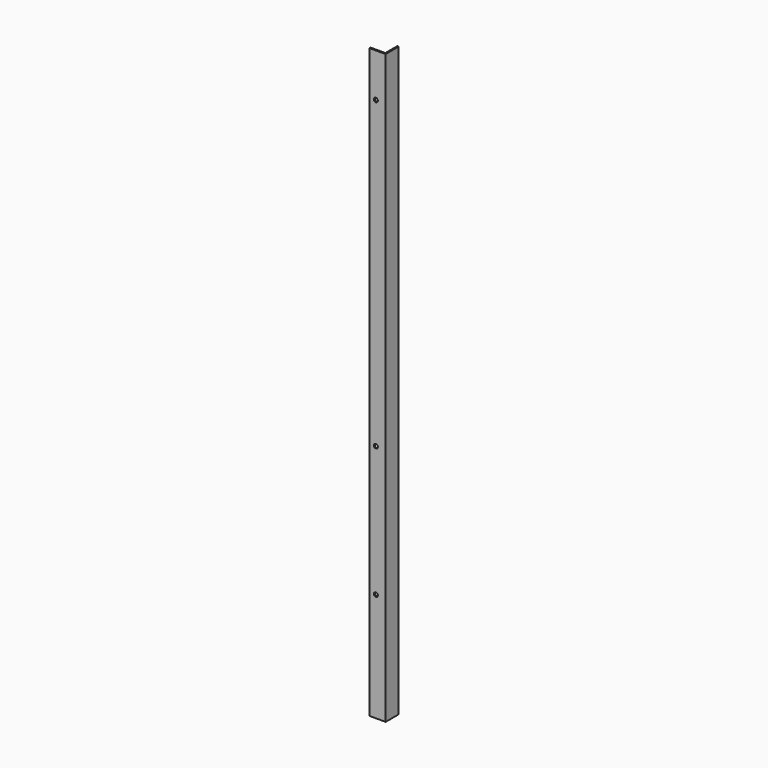
from build123d import *

# Parameters (mm, degrees)
F1_DEPTH = 1371.6
F2_R     = 4.7625
F3_DEPTH = 38.101


with BuildPart() as f1:
    # F0 (on Top) → F1 (new body)
    with BuildSketch(Plane.XY):
        Polygon((0, 3.175), (0, 0), (38.1, 0), (38.1, 38.1), (34.925, 38.1), (34.925, 3.175), align=None)
    extrude(amount=F1_DEPTH)

    # F2 (on face) → F3 (cut, through all)
    with BuildSketch(Plane.XZ):
        with Locations((15.24, 254)):
            Circle(F2_R)
        with Locations((15.24, 558.8)):
            Circle(F2_R)
        with Locations((15.24, 1270)):
            Circle(F2_R)
    extrude(amount=-F3_DEPTH, mode=Mode.SUBTRACT)


solid = f1.part
